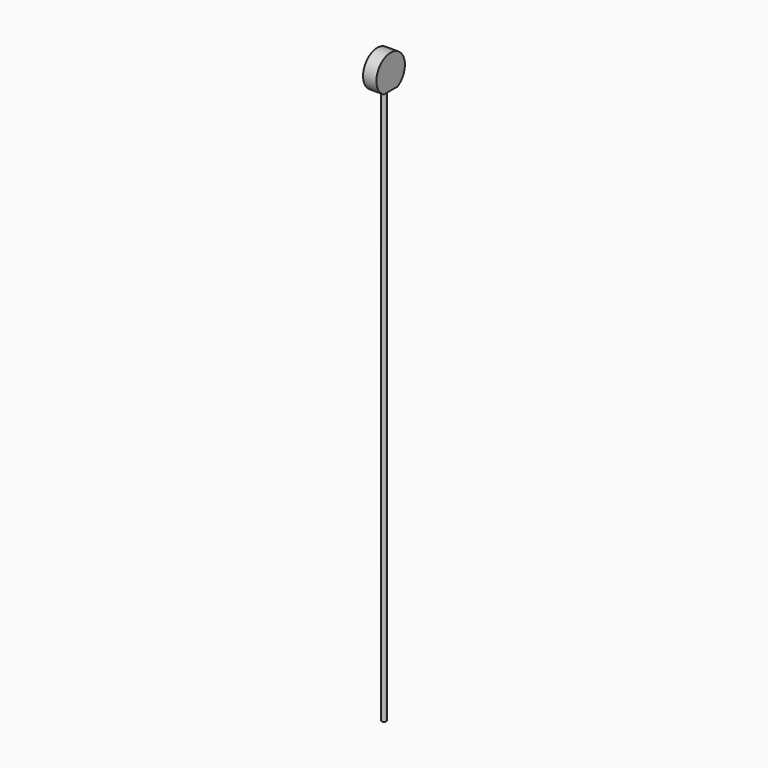
from build123d import *

# Parameters (mm, degrees)
F0_R     = 0.5
F1_DEPTH = 62.5
F3_DEPTH = 1.5


with BuildPart() as f1:
    # F0 (on Top) → F1 (new body, symmetric)
    with BuildSketch(Plane.XY):
        Circle(F0_R)
    extrude(amount=F1_DEPTH, both=True)

    # F2 (on Right) → F3 (join, symmetric)
    with BuildSketch(Plane.YZ):
        with BuildLine():
            ThreePointArc((1.936492, 62.5), (3.44572, 63.968494), (4, 66))
            ThreePointArc((4, 66), (-2.031506, 69.44572), (-1.936492, 62.5))
            Line((-1.936492, 62.5), (1.936492, 62.5))
        make_face()
    extrude(amount=F3_DEPTH, both=True)


solid = f1.part
